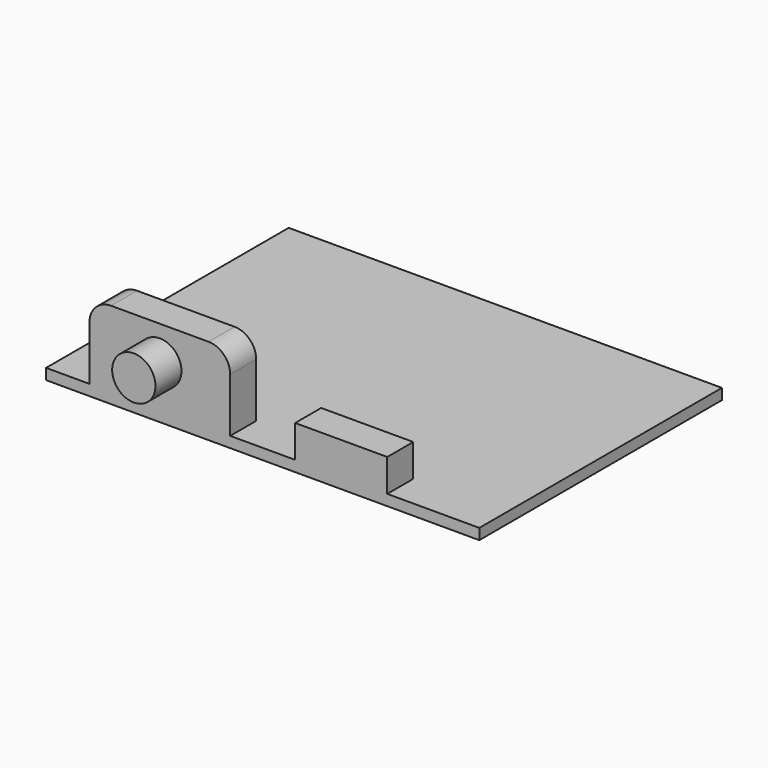
from build123d import *

# Parameters (mm, degrees)
F0_W     = 40
F0_H     = 28
F1_DEPTH = 1
F2_W     = 13
F2_H     = 3
F3_DEPTH = 7
F4_R     = 2
F2_W_2   = 8.5
F5_DEPTH = 3
F6_R     = 2
F7_DEPTH = 3


with BuildPart() as f1:
    # F0 (on Top) → F1 (new body)
    with BuildSketch(Plane.XY):
        Rectangle(F0_W, F0_H)
    extrude(amount=F1_DEPTH)

    # F2 (on face) → F3 (join)
    with BuildSketch(Plane.XY.offset(1)):
        with Locations((-9.5, -12.5)):
            Rectangle(F2_W, F2_H)
    extrude(amount=F3_DEPTH)

    # F4
    f4_edges = [f1.edges().sort_by_distance(p)[0] for p in [
        (-16, -12.5, 8),
        (-3, -12.5, 8),
    ]]
    fillet(f4_edges, radius=F4_R)

    # F2 (on face) → F5 (join)
    with BuildSketch(Plane.XY.offset(1)):
        with Locations((7.25, -12.5)):
            Rectangle(F2_W_2, F2_H)
    extrude(amount=F5_DEPTH)

    # F6 (on face) → F7 (join)
    with BuildSketch(Plane.XZ.offset(14)):
        with Locations((-9.5, 4.815496)):
            Circle(F6_R)
    extrude(amount=F7_DEPTH)


solid = f1.part
